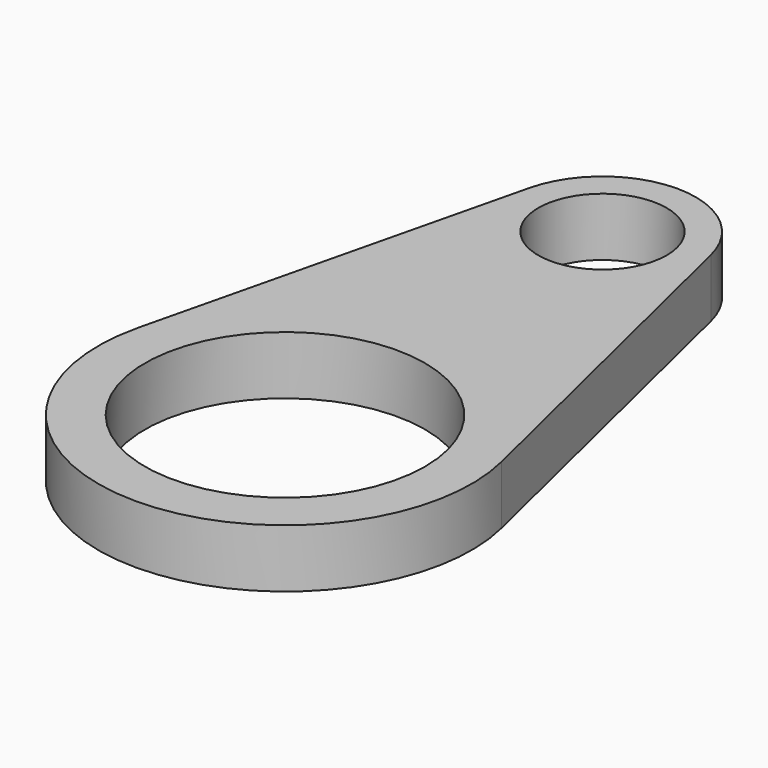
from build123d import *

# Parameters (mm, degrees)
F0_R     = 2.4
F0_R_2   = 1.1
F1_DEPTH = 1


with BuildPart() as f1:
    # F0 (on Top) → F1 (new body)
    with BuildSketch(Plane.XY):
        with BuildLine():
            Line((3.110157, 0.752941), (1.555079, 7.176471))
            ThreePointArc((1.555079, 7.176471), (0, 8.4), (-1.555079, 7.176471))
            Line((-1.555079, 7.176471), (-3.110157, 0.752941))
            ThreePointArc((-3.110157, 0.752941), (0, -3.2), (3.110157, 0.752941))
        make_face()
        Circle(F0_R, mode=Mode.SUBTRACT)
        with Locations((0, 6.8)):
            Circle(F0_R_2, mode=Mode.SUBTRACT)
    extrude(amount=F1_DEPTH)


solid = f1.part
